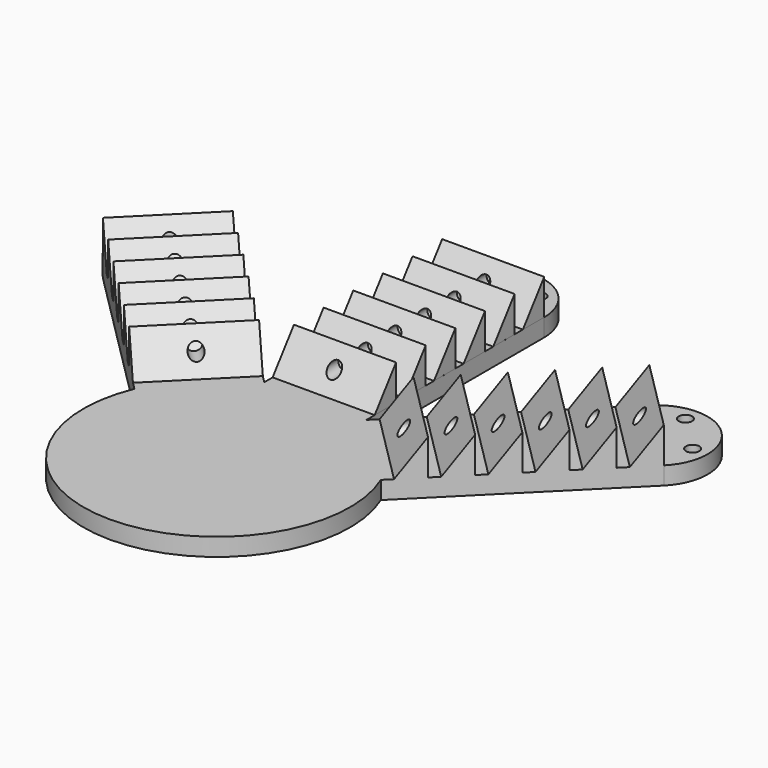
from build123d import *

# Parameters (mm, degrees)
F0_R      = 0.75
F1_DEPTH  = 2
F4_DEPTH  = 11.48
F6_DEPTH  = 11.48
F8_DEPTH  = 11.48
F9_R      = 0.75
F10_DEPTH = 25
F11_R     = 0.75
F12_DEPTH = 25
F13_R     = 0.75
F14_DEPTH = 25


with BuildPart() as f1:
    # F0 (on Top) → F1 (new body)
    with BuildSketch(Plane.XY):
        with BuildLine():
            Line((-31.5357583467, 23.4181724987), (-13.8580888171, 5.7405029691))
            ThreePointArc((-13.8580888171, 5.7405029691), (0, -15), (13.8580888171, 5.7405029691))
            Line((13.8580888171, 5.7405029691), (31.5357583467, 23.4181724987))
            ThreePointArc((31.5357583467, 23.4181724987), (31.5357583467, 31.5357583467), (23.4181724987, 31.5357583467))
            Line((23.4181724987, 31.5357583467), (5.7405029691, 13.8580888171))
            Line((5.7405029691, 13.8580888171), (5.7405029691, 38.8580888171))
            ThreePointArc((5.7405029691, 38.8580888171), (0.0002514811, 44.5983403026), (-5.7400000019, 38.858088812))
            Line((-5.7400000019, 38.858088812), (-5.7405029691, 13.8580888171))
            Line((-5.7405029691, 13.8580888171), (-23.4181724987, 31.5357583467))
            ThreePointArc((-23.4181724987, 31.5357583467), (-31.5357583467, 31.5357583467), (-31.5357583467, 23.4181724987))
        make_face()
        with Locations((-31.5357583467, 27.4769654227)):
            Circle(F0_R, mode=Mode.SUBTRACT)
        with Locations((-27.4769654227, 31.5357583467)):
            Circle(F0_R, mode=Mode.SUBTRACT)
        with Locations((-2.8698742604, 41.7282145573)):
            Circle(F0_R, mode=Mode.SUBTRACT)
        with Locations((31.5357583467, 27.4769654227)):
            Circle(F0_R, mode=Mode.SUBTRACT)
        with Locations((2.8703772251, 41.7282145598)):
            Circle(F0_R, mode=Mode.SUBTRACT)
        with Locations((27.4769654227, 31.5357583467)):
            Circle(F0_R, mode=Mode.SUBTRACT)
    extrude(amount=F1_DEPTH)

    # F3 (on face) → F4 (join)
    with BuildSketch(Plane(origin=(-4.058792924, 4.058792924, 0), x_dir=(0.7071067812, 0.7071067812, 0), z_dir=(0.7071067812, -0.7071067812, 0))):
        Polygon((35.8582971537, 2), (38.8582971537, 2), (38.8582971537, 6), align=None)
        Polygon((31.691630487, 2), (34.691630487, 2), (34.691630487, 6), align=None)
        Polygon((27.5249638204, 2), (30.5249638204, 2), (30.5249638204, 6), align=None)
        Polygon((23.3582971537, 2), (26.3582971537, 2), (26.3582971537, 6), align=None)
        Polygon((19.191630487, 2), (22.191630487, 2), (22.191630487, 6), align=None)
        Polygon((15.0249638204, 2), (18.0249638204, 2), (18.0249638204, 6), align=None)
    extrude(amount=F4_DEPTH)

    # F5 (on face) → F6 (join)
    with BuildSketch(Plane(origin=(-5.7407817733, 0.000115497, 0), x_dir=(-2.01187e-05, -0.9999999998, 0), z_dir=(-0.9999999998, 2.01187e-05, 0))):
        Polygon((-38.8579733229, 6), (-38.8579733229, 2), (-35.8579733229, 2), align=None)
        Polygon((-34.6913066562, 6), (-34.6913066562, 2), (-31.6913066562, 2), align=None)
        Polygon((-30.5246399896, 6), (-30.5246399896, 2), (-27.5246399896, 2), align=None)
        Polygon((-26.3579733229, 6), (-26.3579733229, 2), (-23.3579733229, 2), align=None)
        Polygon((-22.1913066562, 6), (-22.1913066562, 2), (-19.1913066562, 2), align=None)
        Polygon((-18.0246399896, 6), (-18.0246399896, 2), (-15.0246399896, 2), align=None)
    extrude(amount=-F6_DEPTH)

    # F7 (on face) → F8 (join)
    with BuildSketch(Plane(origin=(-4.058792924, -4.058792924, 0), x_dir=(0.7071067812, -0.7071067812, 0), z_dir=(-0.7071067812, -0.7071067812, 0))):
        Polygon((-38.8582971537, 6), (-38.8582971537, 2), (-35.8582971537, 2), align=None)
        Polygon((-31.691630487, 2), (-34.691630487, 6), (-34.691630487, 2), align=None)
        Polygon((-27.5249638204, 2), (-30.5249638204, 6), (-30.5249638204, 2), align=None)
        Polygon((-23.3582971537, 2), (-26.3582971537, 6), (-26.3582971537, 2), align=None)
        Polygon((-19.191630487, 2), (-22.191630487, 6), (-22.191630487, 2), align=None)
        Polygon((-15.0249638204, 2), (-18.0249638204, 6), (-18.0249638204, 2), align=None)
    extrude(amount=-F8_DEPTH)

    # F9 (on face) → F10 (cut)
    with BuildSketch(Plane(origin=(-27.4769654227, 27.4769654227, 0), x_dir=(-0.7071067812, -0.7071067812, 0), z_dir=(-0.7071067812, 0.7071067812, 0))):
        with Locations((0, 4)):
            Circle(F9_R)
    extrude(amount=-F10_DEPTH, mode=Mode.SUBTRACT)

    # F11 (on face) → F12 (cut)
    with BuildSketch(Plane(origin=(0.0007817714, 38.857973315, 0), x_dir=(-0.9999999998, 2.01187e-05, 0), z_dir=(2.01187e-05, 0.9999999998, 0))):
        with Locations((0.0007817745, 4)):
            Circle(F11_R)
    extrude(amount=-F12_DEPTH, mode=Mode.SUBTRACT)

    # F13 (on face) → F14 (cut)
    with BuildSketch(Plane(origin=(27.4769654227, 27.4769654227, 0), x_dir=(-0.7071067812, 0.7071067812, 0), z_dir=(0.7071067812, 0.7071067812, 0))):
        with Locations((0, 4)):
            Circle(F13_R)
    extrude(amount=-F14_DEPTH, mode=Mode.SUBTRACT)


solid = f1.part
